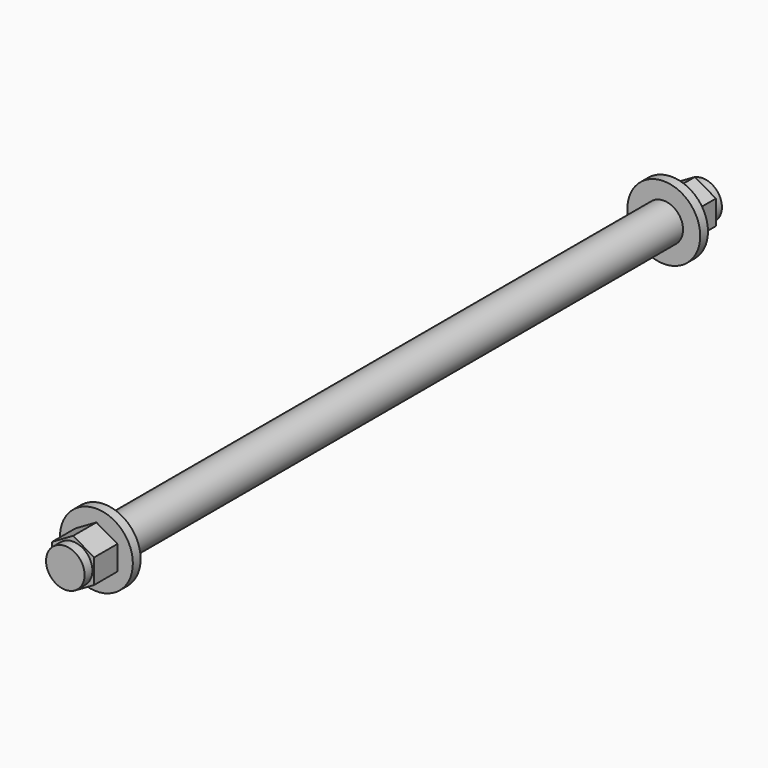
from build123d import *

# Parameters (mm, degrees)
SKETCH013_R     = 3.96875
PAD009_DEPTH    = 164
SKETCH014_R     = 7.5
PAD010_DEPTH    = 10
SKETCH015_R     = 7.5
POCKET003_DEPTH = 8
SKETCH016_R     = 7.5
SKETCH016_R_2   = 3.96875
POCKET004_DEPTH = 2
SKETCH017_R     = 7.5
PAD011_DEPTH    = 10
SKETCH018_R     = 7.5
POCKET005_DEPTH = 8
SKETCH019_R     = 7.5
SKETCH019_R_2   = 3.96875
POCKET006_DEPTH = 2


with BuildPart() as part:
    # Sketch013 → Pad009 (new body)
    with BuildSketch(Plane(origin=(500, 82, 56), x_dir=(1, 0, 0), z_dir=(0, -1, 0))):
        Circle(SKETCH013_R)
    extrude(amount=PAD009_DEPTH)

    # Sketch014 → Pad010 (new body)
    with BuildSketch(Plane(origin=(500, 82, 56), x_dir=(1, 0, 0), z_dir=(0, 1, 0))):
        Circle(SKETCH014_R)
    extrude(amount=-PAD010_DEPTH)

    # Sketch015 → Pocket003 (cut)
    with BuildSketch(Plane(origin=(500, 82, 56), x_dir=(1, 0, 0), z_dir=(0, 1, 0))):
        Circle(SKETCH015_R)
        Polygon((0, 5), (-4.330127, 2.5), (-4.330127, -2.5), (0, -5), (4.330127, -2.5), (4.330127, 2.5), align=None, mode=Mode.SUBTRACT)
    extrude(amount=-POCKET003_DEPTH, mode=Mode.SUBTRACT)

    # Sketch016 → Pocket004 (cut)
    with BuildSketch(Plane(origin=(500, 82, 56), x_dir=(1, 0, 0), z_dir=(0, 1, 0))):
        Circle(SKETCH016_R)
        Circle(SKETCH016_R_2, mode=Mode.SUBTRACT)
    extrude(amount=-POCKET004_DEPTH, mode=Mode.SUBTRACT)

    # Sketch017 → Pad011 (new body)
    with BuildSketch(Plane(origin=(500, -82, 56), x_dir=(1, 0, 0), z_dir=(0, -1, 0))):
        Circle(SKETCH017_R)
    extrude(amount=-PAD011_DEPTH)

    # Sketch018 → Pocket005 (cut)
    with BuildSketch(Plane(origin=(500, -82, 56), x_dir=(1, 0, 0), z_dir=(0, -1, 0))):
        Circle(SKETCH018_R)
        Polygon((0, 5), (-4.330127, 2.5), (-4.330127, -2.5), (0, -5), (4.330127, -2.5), (4.330127, 2.5), align=None, mode=Mode.SUBTRACT)
    extrude(amount=-POCKET005_DEPTH, mode=Mode.SUBTRACT)

    # Sketch019 → Pocket006 (cut)
    with BuildSketch(Plane(origin=(500, -82, 56), x_dir=(1, 0, 0), z_dir=(0, -1, 0))):
        Circle(SKETCH019_R)
        Circle(SKETCH019_R_2, mode=Mode.SUBTRACT)
    extrude(amount=-POCKET006_DEPTH, mode=Mode.SUBTRACT)


with BuildPart() as part_1:
    # Clone013 placement: moved
    add(part.part.moved(Location((48.5, 0, -84))))


solid = part_1.part
